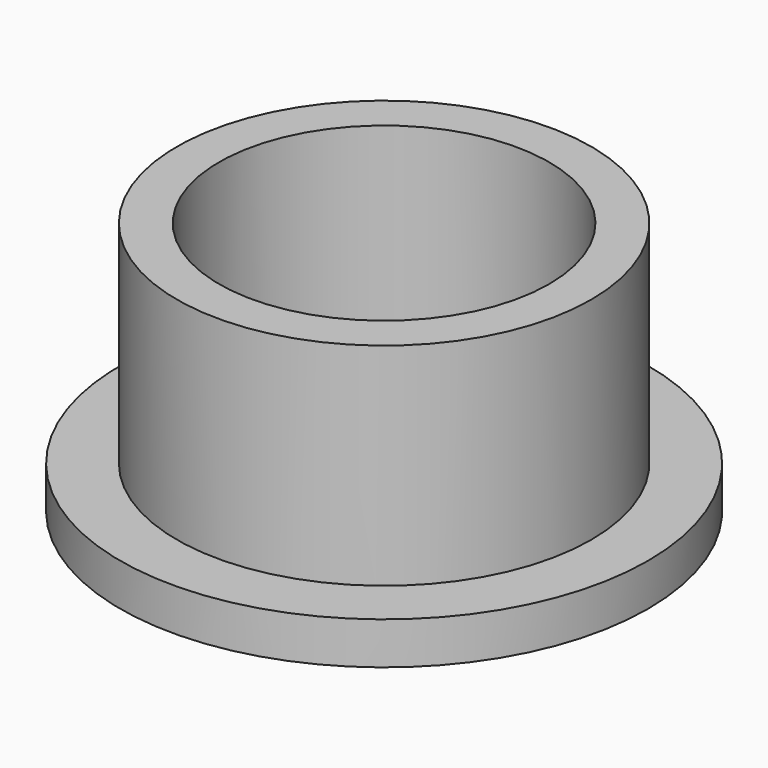
from build123d import *

# Parameters (mm, degrees)
F0_R     = 24.887992
F1_DEPTH = 25.4
F2_R     = 31.71137
F3_DEPTH = 5.08
F4_R     = 19.832009
F5_DEPTH = 38.1


with BuildPart() as f1:
    # F0 (on Top) → F1 (new body)
    with BuildSketch(Plane.XY):
        Circle(F0_R)
    extrude(amount=F1_DEPTH)

    # F2 (on Top) → F3 (join)
    with BuildSketch(Plane.XY):
        Circle(F2_R)
    extrude(amount=-F3_DEPTH)

    # F4 (on face) → F5 (cut)
    with BuildSketch(Plane.XY.offset(25.4)):
        Circle(F4_R)
    extrude(amount=-F5_DEPTH, mode=Mode.SUBTRACT)


solid = f1.part
